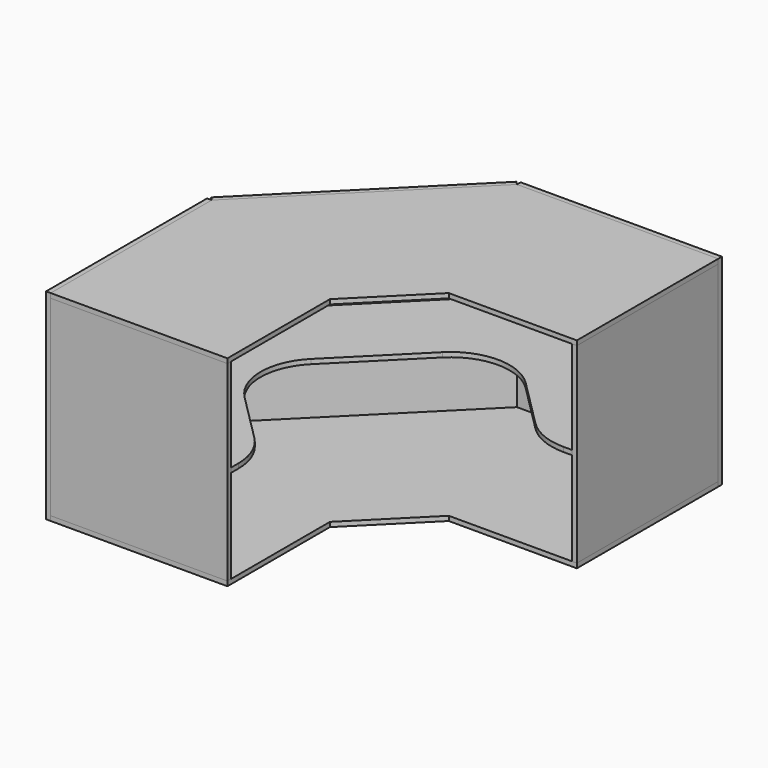
from build123d import *

# Parameters (mm, degrees)
F2_DEPTH  = 3.15
F3_W      = 120
F3_H      = 130
F4_DEPTH  = 3.15
F5_W      = 120
F5_H      = 130
F6_DEPTH  = 3.15
F8_W      = 136.7056274848
F8_H      = 136.3
F9_DEPTH  = 3.15
F10_W     = 136.7056274848
F10_H     = 136.3
F11_DEPTH = 3.15
F12_W     = 162.838733242
F12_H     = 136.3
F13_DEPTH = 3.15
F16_DEPTH = 3.15


with BuildPart() as f2:
    # F1 (on Top) → F2 (new body)
    with BuildSketch(Plane.XY):
        Polygon((0, 136.7056274848), (0, 0), (120, 0), (120, 87), (164.85, 131.85), (251.85, 131.85), (251.85, 251.85), (115.1443725152, 251.85), align=None)
    extrude(amount=F2_DEPTH)


with BuildPart() as f4:
    # F3 (on face) → F4 (new body)
    with BuildSketch(Plane.XZ):
        with Locations((60, -65)):
            Rectangle(F3_W, F3_H)
    extrude(amount=-F4_DEPTH)


with BuildPart() as f6:
    # F5 (on face) → F6 (new body)
    with BuildSketch(Plane.YZ.offset(251.85)):
        with Locations((191.85, -65)):
            Rectangle(F5_W, F5_H)
    extrude(amount=-F6_DEPTH)


with BuildPart() as f7_1:
    # F7: copy of F2
    add(f2.part.moved(Location((0, 0, -133.15))))


with BuildPart() as f9:
    # F8 (on face) → F9 (new body)
    with BuildSketch(Plane(origin=(0, 0, 0), x_dir=(0, -1, 0), z_dir=(-1, 0, 0))):
        with Locations((-68.3528137424, -65)):
            Rectangle(F8_W, F8_H)
    extrude(amount=F9_DEPTH)


with BuildPart() as f11:
    # F10 (on face) → F11 (new body)
    with BuildSketch(Plane(origin=(0, 251.85, 0), x_dir=(-1, 0, 0), z_dir=(0, 1, 0))):
        with Locations((-183.4971862576, -65)):
            Rectangle(F10_W, F10_H)
    extrude(amount=F11_DEPTH)


with BuildPart() as f13:
    # F12 (on face) → F13 (new body)
    with BuildSketch(Plane(origin=(-68.3528137424, 68.3528137424, 0), x_dir=(-0.7071067812, -0.7071067812, 0), z_dir=(-0.7071067812, 0.7071067812, 0))):
        with Locations((-178.0848428418, -65)):
            Rectangle(F12_W, F12_H)
    extrude(amount=F13_DEPTH)


with BuildPart() as f16:
    # F15 (on offset) → F16 (new body)
    with BuildSketch(Plane.XY.offset(-66.575)):
        with BuildLine():
            Line((248.7, 131.85), (248.7, 251.85))
            Line((248.7, 251.85), (115.1443725152, 251.85))
            Line((115.1443725152, 251.85), (0, 136.7056274848))
            Line((0, 136.7056274848), (0, 3.15))
            Line((0, 3.15), (120, 3.15))
            Line((120, 3.15), (120, 9.2154403271))
            ThreePointArc((120, 9.2154403271), (116.9551813005, 24.5227776217), (108.2842712475, 37.4997115746))
            Line((108.2842712475, 37.4997115746), (75.2498557873, 70.5341270347))
            ThreePointArc((75.2498557873, 70.5341270347), (63.5341270347, 98.8183982822), (75.2498557873, 127.1026695297))
            Line((75.2498557873, 127.1026695297), (124.7473304703, 176.6001442127))
            ThreePointArc((124.7473304703, 176.6001442127), (153.0316017178, 188.3158729653), (181.3158729653, 176.6001442127))
            Line((181.3158729653, 176.6001442127), (214.3502884254, 143.5657287525))
            ThreePointArc((214.3502884254, 143.5657287525), (227.3272223783, 134.8948186995), (242.6345596729, 131.85))
            Line((242.6345596729, 131.85), (248.7, 131.85))
        make_face()
    extrude(amount=F16_DEPTH)


solid = Compound([f2.part, f4.part, f6.part, f7_1.part, f9.part, f11.part, f13.part, f16.part])
